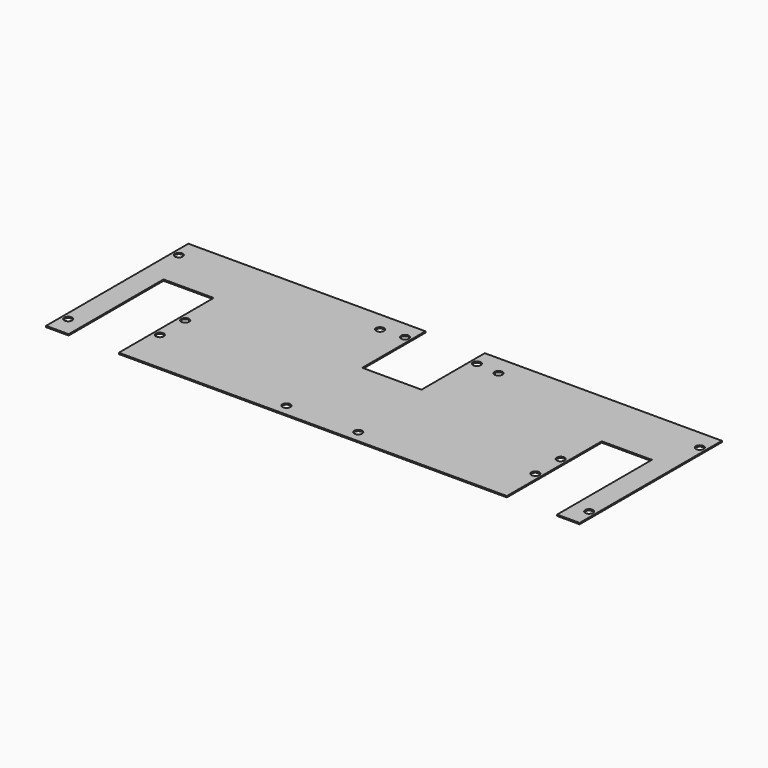
from build123d import *

# Parameters (mm, degrees)
F0_W     = 270
F0_H     = 90
F0_R     = 2
F1_DEPTH = 0.635
F2_W     = 30
F2_H     = 40
F2_W_2   = 25.4
F2_H_2   = 60
F3_DEPTH = 0.636


with BuildPart() as f1:
    # F0 (on Top) → F1 (new body)
    with BuildSketch(Plane.XY):
        with Locations((135, -45)):
            Rectangle(F0_W, F0_H)
        with Locations((3.175, -80)):
            Circle(F0_R, mode=Mode.SUBTRACT)
        with Locations((40, -68)):
            Circle(F0_R, mode=Mode.SUBTRACT)
        with Locations((116.825, -84)):
            Circle(F0_R, mode=Mode.SUBTRACT)
        with Locations((40, -52)):
            Circle(F0_R, mode=Mode.SUBTRACT)
        with Locations((153.175, -84)):
            Circle(F0_R, mode=Mode.SUBTRACT)
        with Locations((266.825, -80)):
            Circle(F0_R, mode=Mode.SUBTRACT)
        with Locations((230, -68)):
            Circle(F0_R, mode=Mode.SUBTRACT)
        with Locations((230, -52)):
            Circle(F0_R, mode=Mode.SUBTRACT)
        with Locations((3.175, -10)):
            Circle(F0_R, mode=Mode.SUBTRACT)
        with Locations((105, -10)):
            Circle(F0_R, mode=Mode.SUBTRACT)
        with Locations((116.825, -9)):
            Circle(F0_R, mode=Mode.SUBTRACT)
        with Locations((153.175, -9)):
            Circle(F0_R, mode=Mode.SUBTRACT)
        with Locations((165, -10)):
            Circle(F0_R, mode=Mode.SUBTRACT)
        with Locations((266.825, -10)):
            Circle(F0_R, mode=Mode.SUBTRACT)
    extrude(amount=F1_DEPTH)

    # F2 (on face) → F3 (cut, through all)
    with BuildSketch(Plane.XY.offset(0.635)):
        with Locations((135, -20)):
            Rectangle(F2_W, F2_H)
        with Locations((24.125, -60)):
            Rectangle(F2_W_2, F2_H_2)
        with Locations((245.875, -60)):
            Rectangle(F2_W_2, F2_H_2)
    extrude(amount=-F3_DEPTH, mode=Mode.SUBTRACT)


solid = f1.part
